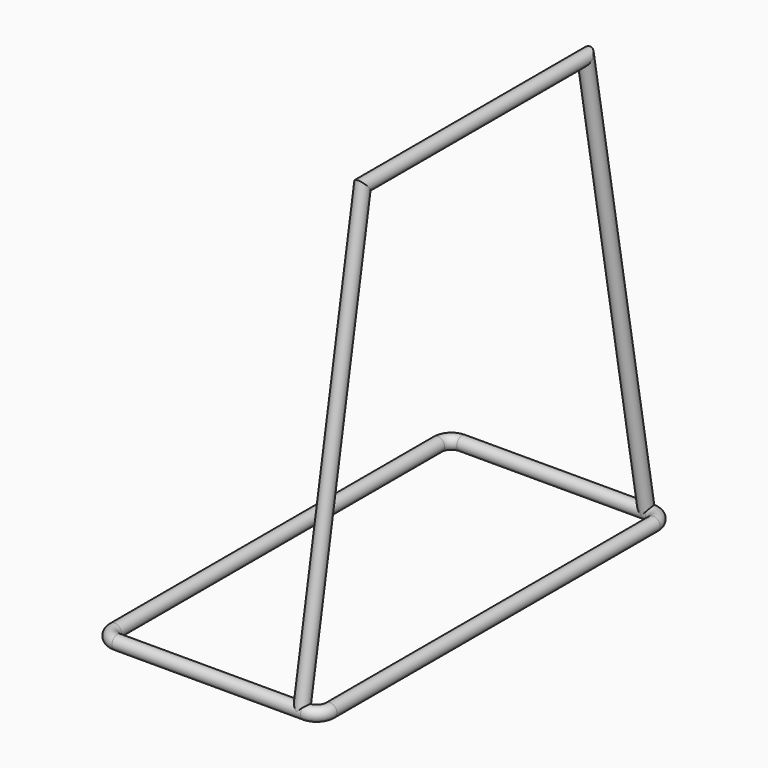
from build123d import *

# Parameters (mm, degrees)
F1_R = 19.05
F5_R = 19.05


with BuildPart() as f2:
    # F2: sweep along a path in F0
    with BuildLine(Plane.XY) as f2_path:
        Line((-267.4559177475, 641.6957181156), (265.9440822525, 641.6957181156))
        ThreePointArc((265.9440822525, 641.6957181156), (292.8848506157, 630.5364864788), (304.0440822525, 603.5957181156))
        Line((304.0440822525, 603.5957181156), (304.0440822525, -539.4042818844))
        ThreePointArc((304.0440822525, -539.4042818844), (292.8848506157, -566.3450502476), (265.9440822525, -577.5042818844))
        Line((265.9440822525, -577.5042818844), (-267.4559177475, -577.5042818844))
        ThreePointArc((-267.4559177475, -577.5042818844), (-294.3966861107, -566.3450502476), (-305.5559177475, -539.4042818844))
        Line((-305.5559177475, -539.4042818844), (-305.5559177475, 603.5957181156))
        ThreePointArc((-305.5559177475, 603.5957181156), (-294.3966861107, 630.5364864788), (-267.4559177475, 641.6957181156))
    # F1 (on Right) → F2 (sweep)
    with BuildSketch(Plane.YZ):
        with Locations((641.6957181156, 0)):
            Circle(F1_R)
    sweep(path=f2_path.line)

    # F6: sweep along a path in F4
    with BuildLine(Plane.YZ.offset(254)) as f6_path:
        Line((641.6957181156, 0), (426.7178632358, 1219.2))
        Line((426.7178632358, 1219.2), (-362.5264270047, 1219.2))
        Line((-362.5264270047, 1219.2), (-577.5042818844, 0))
    # F5 (on Front) → F6 (sweep)
    with BuildSketch(Plane.XZ):
        with Locations((254, 1219.2)):
            Circle(F5_R)
    sweep(path=f6_path.line, transition=Transition.RIGHT)


solid = f2.part
